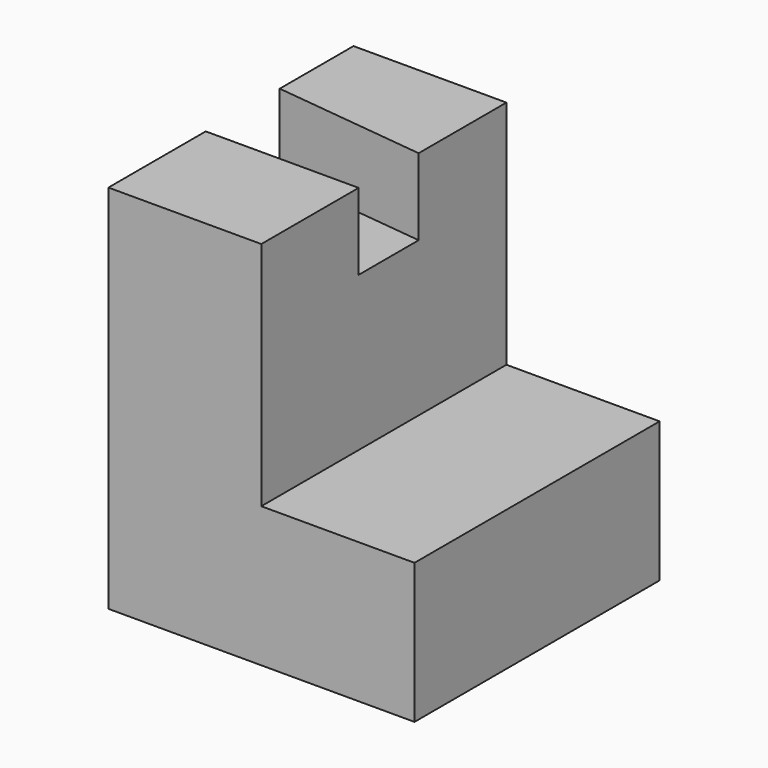
from build123d import *

# Parameters (mm, degrees)
F0_W     = 38.1
F0_H     = 30.7473719984
F1_DEPTH = 25.4
F2_W     = 25.4
F2_H     = 19.1348433927
F3_DEPTH = 12.7
F4_W     = 12.7244254082
F4_H     = 30.7473719984
F5_DEPTH = 25.4
F7_DEPTH = 6.35


with BuildPart() as f1:
    # F0 (on Front) → F1 (new body)
    with BuildSketch(Plane.XZ):
        with Locations((-37.9534605891, 41.5436550975)):
            Rectangle(F0_W, F0_H)
    extrude(amount=F1_DEPTH)

    # F2 (on face) → F3 (cut)
    with BuildSketch(Plane.YZ.offset(-18.9034605891)):
        with Locations((-12.7, 47.3499194004)):
            Rectangle(F2_W, F2_H)
    extrude(amount=-F3_DEPTH, mode=Mode.SUBTRACT)

    # F4 (on face) → F5 (cut)
    with BuildSketch(Plane(origin=(0, 0, 0), x_dir=(-1, 0, 0), z_dir=(0, 1, 0))):
        with Locations((50.6412478849, 41.5436550975)):
            Rectangle(F4_W, F4_H)
    extrude(amount=-F5_DEPTH, mode=Mode.SUBTRACT)

    # F6 (on face) → F7 (cut)
    with BuildSketch(Plane.XY.offset(56.9173410967)):
        Polygon((-44.2790351808, -7.6469713822), (-44.2790351808, -15.3137892485), (-31.6034605891, -15.3137892485), (-31.6034605891, -9.0938359499), align=None)
    extrude(amount=-F7_DEPTH, mode=Mode.SUBTRACT)


solid = f1.part
